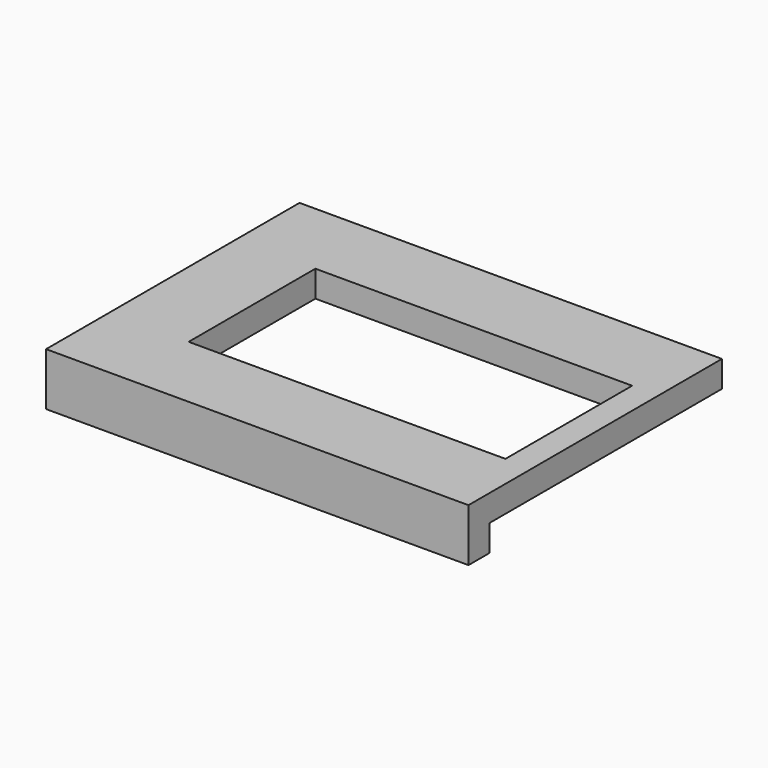
from build123d import *

# Parameters (mm, degrees)
F0_W     = 101.6
F0_H     = 76.2
F1_DEPTH = 12.7
F2_W     = 95.25
F2_H     = 69.85
F3_DEPTH = 6.35
F4_W     = 76.2
F4_H     = 38.1
F5_DEPTH = 25.4


with BuildPart() as f1:
    # F0 (on Top) → F1 (new body)
    with BuildSketch(Plane.XY):
        Rectangle(F0_W, F0_H)
    extrude(amount=F1_DEPTH)

    # F2 (on face) → F3 (cut)
    with BuildSketch(Plane(origin=(0, 0, 0), x_dir=(1, 0, 0), z_dir=(0, 0, -1))):
        with Locations((3.175, -3.175)):
            Rectangle(F2_W, F2_H)
    extrude(amount=-F3_DEPTH, mode=Mode.SUBTRACT)

    # F4 (on face) → F5 (cut)
    with BuildSketch(Plane.XY.offset(12.7)):
        with Locations((6.35, 0)):
            Rectangle(F4_W, F4_H)
    extrude(amount=-F5_DEPTH, mode=Mode.SUBTRACT)


solid = f1.part
